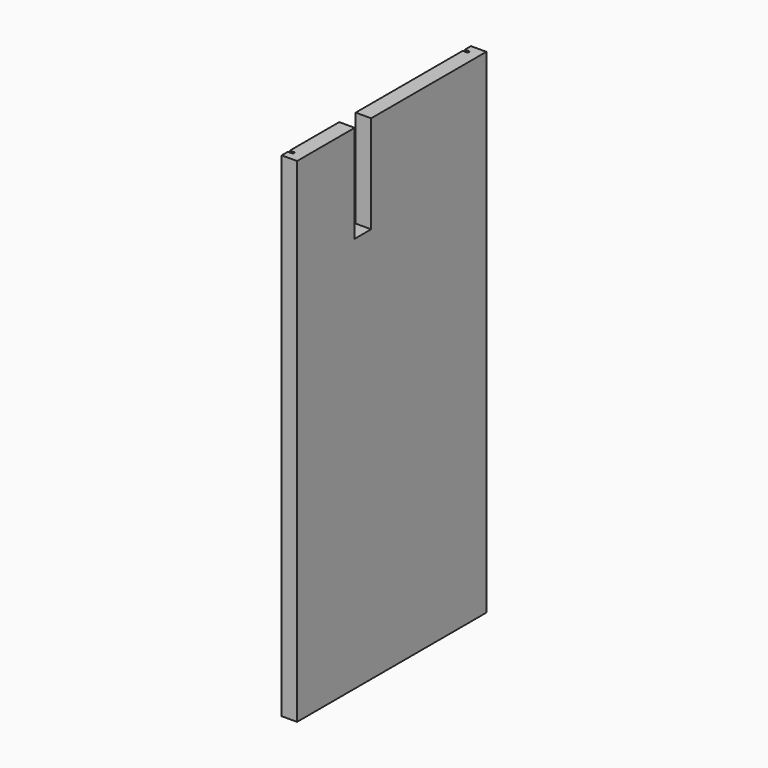
from build123d import *

# Parameters (mm, degrees)
SKETCH_W          = 292.1
SKETCH_H          = 609.6
PAD_DEPTH         = 19.05
BOX_W             = 3.175
BOX_H             = 609.6
BOX_DEPTH         = 107.95
BOX001_W          = 3.175
BOX001_H          = 609.6
BOX001_DEPTH      = 6.35
CYLINDER_R        = 6.35
CYLINDER_DEPTH    = 6.35
CYLINDER001_R     = 6.35
CYLINDER001_DEPTH = 6.35
CYLINDER002_R     = 6.35
CYLINDER002_DEPTH = 6.35
CYLINDER003_R     = 6.35
CYLINDER003_DEPTH = 6.35
BOX002_W          = 25.4
BOX002_H          = 120.65
BOX002_DEPTH      = 19.05


with BuildPart() as part:
    # Sketch → Pad (new body)
    with BuildSketch(Plane.YZ):
        with Locations((0, 304.8)):
            Rectangle(SKETCH_W, SKETCH_H)
    extrude(amount=PAD_DEPTH)

    # Box → Box (cut)
    with BuildSketch(Plane(origin=(6.35, 133.35, 609.6), x_dir=(0, 1, 0), z_dir=(-1, 0, 0))):
        with Locations((1.5875, 304.8)):
            Rectangle(BOX_W, BOX_H)
    extrude(amount=BOX_DEPTH, mode=Mode.SUBTRACT)

    # Box001 → Box001 (cut)
    with BuildSketch(Plane(origin=(6.35, -136.525, 609.6), x_dir=(0, 1, 0), z_dir=(-1, 0, 0))):
        with Locations((1.5875, 304.8)):
            Rectangle(BOX001_W, BOX001_H)
    extrude(amount=BOX001_DEPTH, mode=Mode.SUBTRACT)

    # Cylinder → Cylinder (cut)
    with BuildSketch(Plane(origin=(6.35, -63.5, 444.5), x_dir=(0, 1, 0), z_dir=(-1, 0, 0))):
        Circle(CYLINDER_R)
    extrude(amount=CYLINDER_DEPTH, mode=Mode.SUBTRACT)

    # Cylinder001 → Cylinder001 (cut)
    with BuildSketch(Plane(origin=(6.35, 38.1, 444.5), x_dir=(0, 1, 0), z_dir=(-1, 0, 0))):
        Circle(CYLINDER001_R)
    extrude(amount=CYLINDER001_DEPTH, mode=Mode.SUBTRACT)

    # Cylinder002 → Cylinder002 (cut)
    with BuildSketch(Plane(origin=(6.35, 38.1, 190.5), x_dir=(0, 1, 0), z_dir=(-1, 0, 0))):
        Circle(CYLINDER002_R)
    extrude(amount=CYLINDER002_DEPTH, mode=Mode.SUBTRACT)

    # Cylinder003 → Cylinder003 (cut)
    with BuildSketch(Plane(origin=(6.35, -63.5, 190.5), x_dir=(0, 1, 0), z_dir=(-1, 0, 0))):
        Circle(CYLINDER003_R)
    extrude(amount=CYLINDER003_DEPTH, mode=Mode.SUBTRACT)

    # Box002 → Box002 (cut)
    with BuildSketch(Plane(origin=(19.05, -57.15, 609.6), x_dir=(0, 1, 0), z_dir=(-1, 0, 0))):
        with Locations((12.7, 60.325)):
            Rectangle(BOX002_W, BOX002_H)
    extrude(amount=BOX002_DEPTH, mode=Mode.SUBTRACT)


solid = part.part
